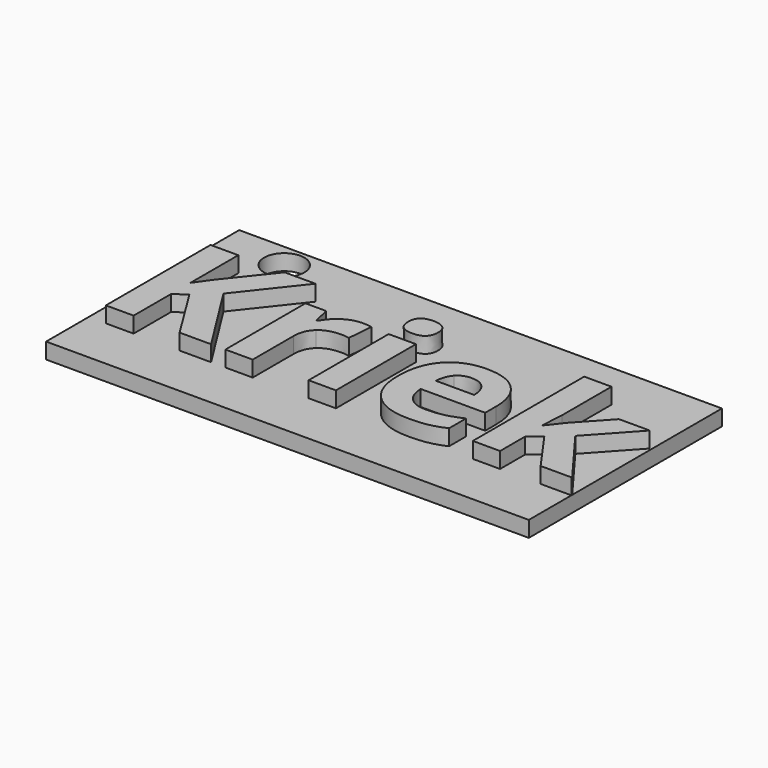
from build123d import *

# Parameters (mm, degrees)
F0_W     = 4.3074085058
F0_H     = 15.7923245744
F0_R     = 3.175
F1_DEPTH = 2.5
F2_DEPTH = 5


with BuildPart() as f1:
    # F0 (on Top) → F1 (new body)
    with BuildSketch(Plane.XY):
        Polygon((38.1, 19.9383278686), (-38.1, 19.9383278686), (-38.1, -18.1616721314), (38.1, -18.1616721314), (38.1, -9.7630377662), (33.2459606199, -9.7630377662), (28.6990005392, -3.3629428614), (26.8458657151, -4.8454507207), (26.8458657151, -9.7630377662), (22.5384572092, -9.7630377662), (22.5384572092, 12.2169491843), (26.8458657151, 12.2169491843), (26.8458657151, 2.4134139806), (26.6198736634, -1.1753398008), (26.6786315968, -1.1753398008), (28.5543656261, 1.2246957885), (32.9747701578, 6.0292868082), (37.8335992699, 6.0292868082), (31.5645797551, -0.8227922001), (38.1, -9.6047631542), align=None)
        Polygon((-26.0317545471, 1.7489973485), (-18.7728898458, -9.7630377662), (-23.7447149837, -9.7630377662), (-29.1549647019, -1.0623437749), (-31.003579685, -2.391177039), (-31.003579685, -9.7630377662), (-35.3833056474, -9.7630377662), (-35.3833056474, 10.8881159202), (-31.003579685, 10.8881159202), (-31.003579685, 1.4371283172), (-29.2815202509, 3.8688027937), (-23.6859570502, 10.8881159202), (-18.8271279382, 10.8881159202), align=None, mode=Mode.SUBTRACT)
        with BuildLine():
            add(Edge.make_bspline(
                [(-10.4179636936, 5.5117650097), (-9.1682276475, 6.3230764754), (-7.6992793113, 6.3230764754)],
                knots=[0, 0, 0, 1, 1, 1], degree=2))
            add(Edge.make_bspline(
                [(-7.6992793113, 6.3230764754), (-6.8224301506, 6.3230764754), (-6.2438904982, 6.1965209264)],
                knots=[0, 0, 0, 1, 1, 1], degree=2))
            Line((-6.2438904982, 6.1965209264), (-6.5693190527, 2.1603028827))
            add(Edge.make_bspline(
                [(-6.5693190527, 2.1603028827), (-7.0936206127, 2.3004179547), (-7.8393943834, 2.3004179547)],
                knots=[0, 0, 0, 1, 1, 1], degree=2))
            add(Edge.make_bspline(
                [(-7.8393943834, 2.3004179547), (-9.9004418951, 2.3004179547), (-11.0530013589, 1.2405152322)],
                knots=[0, 0, 0, 1, 1, 1], degree=2))
            add(Edge.make_bspline(
                [(-11.0530013589, 1.2405152322), (-12.2055608227, 0.1806125096), (-12.2055608227, -1.726760407)],
                knots=[0, 0, 0, 1, 1, 1], degree=2))
            Line((-12.2055608227, -1.726760407), (-12.2055608227, -9.7630377662))
            Line((-12.2055608227, -9.7630377662), (-16.5129693285, -9.7630377662))
            Line((-16.5129693285, -9.7630377662), (-16.5129693285, 6.0292868082))
            Line((-16.5129693285, 6.0292868082), (-13.2496441016, 6.0292868082))
            Line((-13.2496441016, 6.0292868082), (-12.6123465158, 3.3716202799))
            Line((-12.6123465158, 3.3716202799), (-12.4044338282, 3.3716202799))
            add(Edge.make_bspline(
                [(-12.4044338282, 3.3716202799), (-11.6676997396, 4.700453544), (-10.4179636936, 5.5117650097)],
                knots=[0, 0, 0, 1, 1, 1], degree=2))
        make_face(mode=Mode.SUBTRACT)
        with Locations((-1.2246070295, -1.866875479)):
            Rectangle(F0_W, F0_H, mode=Mode.SUBTRACT)
        with BuildLine():
            add(Edge.make_bspline(
                [(15.7315766113, -9.7720774483), (14.4479417575, -10.0477877514), (12.5948069334, -10.0477877514)],
                knots=[0, 0, 0, 1, 1, 1], degree=2))
            add(Edge.make_bspline(
                [(12.5948069334, -10.0477877514), (8.7845809414, -10.0477877514), (6.63765645, -7.9415418294)],
                knots=[0, 0, 0, 1, 1, 1], degree=2))
            add(Edge.make_bspline(
                [(6.63765645, -7.9415418294), (4.4907319586, -5.8352959073), (4.4907319586, -1.9798715049)],
                knots=[0, 0, 0, 1, 1, 1], degree=2))
            add(Edge.make_bspline(
                [(4.4907319586, -1.9798715049), (4.4907319586, 1.9885489234), (6.4749421728, 4.1558126994)],
                knots=[0, 0, 0, 1, 1, 1], degree=2))
            add(Edge.make_bspline(
                [(6.4749421728, 4.1558126994), (8.4591523869, 6.3230764754), (11.9620291886, 6.3230764754)],
                knots=[0, 0, 0, 1, 1, 1], degree=2))
            add(Edge.make_bspline(
                [(11.9620291886, 6.3230764754), (15.3067115541, 6.3230764754), (17.1711459808, 4.4179634794)],
                knots=[0, 0, 0, 1, 1, 1], degree=2))
            add(Edge.make_bspline(
                [(17.1711459808, 4.4179634794), (19.0355804075, 2.5128504834), (19.0355804075, -0.8499112463)],
                knots=[0, 0, 0, 1, 1, 1], degree=2))
            Line((19.0355804075, -0.8499112463), (19.0355804075, -2.9425976452))
            Line((19.0355804075, -2.9425976452), (8.8523785569, -2.9425976452))
            add(Edge.make_bspline(
                [(8.8523785569, -2.9425976452), (8.9246960134, -4.7776531052), (9.9416602462, -5.8081768611)],
                knots=[0, 0, 0, 1, 1, 1], degree=2))
            add(Edge.make_bspline(
                [(9.9416602462, -5.8081768611), (10.9586244789, -6.8387006169), (12.7936799389, -6.8387006169)],
                knots=[0, 0, 0, 1, 1, 1], degree=2))
            add(Edge.make_bspline(
                [(12.7936799389, -6.8387006169), (14.2219497058, -6.8387006169), (15.4920250365, -6.5426510292)],
                knots=[0, 0, 0, 1, 1, 1], degree=2))
            add(Edge.make_bspline(
                [(15.4920250365, -6.5426510292), (16.7621003672, -6.2466014414), (18.1451717237, -5.5957443325)],
                knots=[0, 0, 0, 1, 1, 1], degree=2))
            Line((18.1451717237, -5.5957443325), (18.1451717237, -8.9313870159))
            add(Edge.make_bspline(
                [(18.1451717237, -8.9313870159), (17.0152114651, -9.4963671452), (15.7315766113, -9.7720774483)],
                knots=[0, 0, 0, 1, 1, 1], degree=2))
        make_face(mode=Mode.SUBTRACT)
        with BuildLine():
            add(Edge.make_bspline(
                [(-1.2178272679, 7.9908978171), (-3.5636247648, 7.9908978171), (-3.5636247648, 10.1107032623)],
                knots=[0, 0, 0, 1, 1, 1], degree=2))
            add(Edge.make_bspline(
                [(-3.5636247648, 10.1107032623), (-3.5636247648, 12.2169491843), (-1.2178272679, 12.2169491843)],
                knots=[0, 0, 0, 1, 1, 1], degree=2))
            add(Edge.make_bspline(
                [(-1.2178272679, 12.2169491843), (1.127970229, 12.2169491843), (1.127970229, 10.1107032623)],
                knots=[0, 0, 0, 1, 1, 1], degree=2))
            add(Edge.make_bspline(
                [(1.127970229, 10.1107032623), (1.127970229, 9.1072985526), (0.542650815, 8.5490981849)],
                knots=[0, 0, 0, 1, 1, 1], degree=2))
            add(Edge.make_bspline(
                [(0.542650815, 8.5490981849), (-0.0426685989, 7.9908978171), (-1.2178272679, 7.9908978171)],
                knots=[0, 0, 0, 1, 1, 1], degree=2))
        make_face(mode=Mode.SUBTRACT)
        with Locations((-27.94, 16.1283278686)):
            Circle(F0_R, mode=Mode.SUBTRACT)
        Polygon((-23.7447149837, -9.7630377662), (-18.7728898458, -9.7630377662), (-26.0317545471, 1.7489973485), (-18.8271279382, 10.8881159202), (-23.6859570502, 10.8881159202), (-29.2815202509, 3.8688027937), (-31.003579685, 1.4371283172), (-31.003579685, 10.8881159202), (-35.3833056474, 10.8881159202), (-35.3833056474, -9.7630377662), (-31.003579685, -9.7630377662), (-31.003579685, -2.391177039), (-29.1549647019, -1.0623437749), align=None)
        Polygon((38.1, -9.7630377662), (38.1, -9.6047631542), (31.5645797551, -0.8227922001), (37.8335992699, 6.0292868082), (32.9747701578, 6.0292868082), (28.5543656261, 1.2246957885), (26.6786315968, -1.1753398008), (26.6198736634, -1.1753398008), (26.8458657151, 2.4134139806), (26.8458657151, 12.2169491843), (22.5384572092, 12.2169491843), (22.5384572092, -9.7630377662), (26.8458657151, -9.7630377662), (26.8458657151, -4.8454507207), (28.6990005392, -3.3629428614), (33.2459606199, -9.7630377662), align=None)
        with BuildLine():
            add(Edge.make_bspline(
                [(12.5948069334, -10.0477877514), (8.7845809414, -10.0477877514), (6.63765645, -7.9415418294)],
                knots=[0, 0, 0, 1, 1, 1], degree=2))
            add(Edge.make_bspline(
                [(15.7315766113, -9.7720774483), (14.4479417575, -10.0477877514), (12.5948069334, -10.0477877514)],
                knots=[0, 0, 0, 1, 1, 1], degree=2))
            add(Edge.make_bspline(
                [(18.1451717237, -8.9313870159), (17.0152114651, -9.4963671452), (15.7315766113, -9.7720774483)],
                knots=[0, 0, 0, 1, 1, 1], degree=2))
            Line((18.1451717237, -8.9313870159), (18.1451717237, -5.5957443325))
            add(Edge.make_bspline(
                [(15.4920250365, -6.5426510292), (16.7621003672, -6.2466014414), (18.1451717237, -5.5957443325)],
                knots=[0, 0, 0, 1, 1, 1], degree=2))
            add(Edge.make_bspline(
                [(12.7936799389, -6.8387006169), (14.2219497058, -6.8387006169), (15.4920250365, -6.5426510292)],
                knots=[0, 0, 0, 1, 1, 1], degree=2))
            add(Edge.make_bspline(
                [(9.9416602462, -5.8081768611), (10.9586244789, -6.8387006169), (12.7936799389, -6.8387006169)],
                knots=[0, 0, 0, 1, 1, 1], degree=2))
            add(Edge.make_bspline(
                [(8.8523785569, -2.9425976452), (8.9246960134, -4.7776531052), (9.9416602462, -5.8081768611)],
                knots=[0, 0, 0, 1, 1, 1], degree=2))
            Line((8.8523785569, -2.9425976452), (19.0355804075, -2.9425976452))
            Line((19.0355804075, -2.9425976452), (19.0355804075, -0.8499112463))
            add(Edge.make_bspline(
                [(17.1711459808, 4.4179634794), (19.0355804075, 2.5128504834), (19.0355804075, -0.8499112463)],
                knots=[0, 0, 0, 1, 1, 1], degree=2))
            add(Edge.make_bspline(
                [(11.9620291886, 6.3230764754), (15.3067115541, 6.3230764754), (17.1711459808, 4.4179634794)],
                knots=[0, 0, 0, 1, 1, 1], degree=2))
            add(Edge.make_bspline(
                [(6.4749421728, 4.1558126994), (8.4591523869, 6.3230764754), (11.9620291886, 6.3230764754)],
                knots=[0, 0, 0, 1, 1, 1], degree=2))
            add(Edge.make_bspline(
                [(4.4907319586, -1.9798715049), (4.4907319586, 1.9885489234), (6.4749421728, 4.1558126994)],
                knots=[0, 0, 0, 1, 1, 1], degree=2))
            add(Edge.make_bspline(
                [(6.63765645, -7.9415418294), (4.4907319586, -5.8352959073), (4.4907319586, -1.9798715049)],
                knots=[0, 0, 0, 1, 1, 1], degree=2))
        make_face()
        with BuildLine():
            add(Edge.make_bspline(
                [(11.9891482348, 3.258624254), (10.6196364014, 3.258624254), (9.8422237434, 2.3908147754)],
                knots=[0, 0, 0, 1, 1, 1], degree=2))
            add(Edge.make_bspline(
                [(14.1631917724, 2.3908147754), (13.3586600682, 3.258624254), (11.9891482348, 3.258624254)],
                knots=[0, 0, 0, 1, 1, 1], degree=2))
            add(Edge.make_bspline(
                [(14.9993623637, -0.0724985884), (14.9677234765, 1.5230052968), (14.1631917724, 2.3908147754)],
                knots=[0, 0, 0, 1, 1, 1], degree=2))
            Line((14.9993623637, -0.0724985884), (8.9518150596, -0.0724985884))
            add(Edge.make_bspline(
                [(9.8422237434, 2.3908147754), (9.0648110855, 1.5230052968), (8.9518150596, -0.0724985884)],
                knots=[0, 0, 0, 1, 1, 1], degree=2))
        make_face(mode=Mode.SUBTRACT)
        with BuildLine():
            add(Edge.make_bspline(
                [(-7.6992793113, 6.3230764754), (-6.8224301506, 6.3230764754), (-6.2438904982, 6.1965209264)],
                knots=[0, 0, 0, 1, 1, 1], degree=2))
            add(Edge.make_bspline(
                [(-10.4179636936, 5.5117650097), (-9.1682276475, 6.3230764754), (-7.6992793113, 6.3230764754)],
                knots=[0, 0, 0, 1, 1, 1], degree=2))
            add(Edge.make_bspline(
                [(-12.4044338282, 3.3716202799), (-11.6676997396, 4.700453544), (-10.4179636936, 5.5117650097)],
                knots=[0, 0, 0, 1, 1, 1], degree=2))
            Line((-12.4044338282, 3.3716202799), (-12.6123465158, 3.3716202799))
            Line((-12.6123465158, 3.3716202799), (-13.2496441016, 6.0292868082))
            Line((-13.2496441016, 6.0292868082), (-16.5129693285, 6.0292868082))
            Line((-16.5129693285, 6.0292868082), (-16.5129693285, -9.7630377662))
            Line((-16.5129693285, -9.7630377662), (-12.2055608227, -9.7630377662))
            Line((-12.2055608227, -9.7630377662), (-12.2055608227, -1.726760407))
            add(Edge.make_bspline(
                [(-11.0530013589, 1.2405152322), (-12.2055608227, 0.1806125096), (-12.2055608227, -1.726760407)],
                knots=[0, 0, 0, 1, 1, 1], degree=2))
            add(Edge.make_bspline(
                [(-7.8393943834, 2.3004179547), (-9.9004418951, 2.3004179547), (-11.0530013589, 1.2405152322)],
                knots=[0, 0, 0, 1, 1, 1], degree=2))
            add(Edge.make_bspline(
                [(-6.5693190527, 2.1603028827), (-7.0936206127, 2.3004179547), (-7.8393943834, 2.3004179547)],
                knots=[0, 0, 0, 1, 1, 1], degree=2))
            Line((-6.5693190527, 2.1603028827), (-6.2438904982, 6.1965209264))
        make_face()
        with Locations((-1.2246070295, -1.866875479)):
            Rectangle(F0_W, F0_H)
        with BuildLine():
            add(Edge.make_bspline(
                [(-3.5636247648, 10.1107032623), (-3.5636247648, 12.2169491843), (-1.2178272679, 12.2169491843)],
                knots=[0, 0, 0, 1, 1, 1], degree=2))
            add(Edge.make_bspline(
                [(-1.2178272679, 7.9908978171), (-3.5636247648, 7.9908978171), (-3.5636247648, 10.1107032623)],
                knots=[0, 0, 0, 1, 1, 1], degree=2))
            add(Edge.make_bspline(
                [(0.542650815, 8.5490981849), (-0.0426685989, 7.9908978171), (-1.2178272679, 7.9908978171)],
                knots=[0, 0, 0, 1, 1, 1], degree=2))
            add(Edge.make_bspline(
                [(1.127970229, 10.1107032623), (1.127970229, 9.1072985526), (0.542650815, 8.5490981849)],
                knots=[0, 0, 0, 1, 1, 1], degree=2))
            add(Edge.make_bspline(
                [(-1.2178272679, 12.2169491843), (1.127970229, 12.2169491843), (1.127970229, 10.1107032623)],
                knots=[0, 0, 0, 1, 1, 1], degree=2))
        make_face()
        with BuildLine():
            add(Edge.make_bspline(
                [(14.1631917724, 2.3908147754), (13.3586600682, 3.258624254), (11.9891482348, 3.258624254)],
                knots=[0, 0, 0, 1, 1, 1], degree=2))
            add(Edge.make_bspline(
                [(11.9891482348, 3.258624254), (10.6196364014, 3.258624254), (9.8422237434, 2.3908147754)],
                knots=[0, 0, 0, 1, 1, 1], degree=2))
            add(Edge.make_bspline(
                [(9.8422237434, 2.3908147754), (9.0648110855, 1.5230052968), (8.9518150596, -0.0724985884)],
                knots=[0, 0, 0, 1, 1, 1], degree=2))
            Line((8.9518150596, -0.0724985884), (14.9993623637, -0.0724985884))
            add(Edge.make_bspline(
                [(14.9993623637, -0.0724985884), (14.9677234765, 1.5230052968), (14.1631917724, 2.3908147754)],
                knots=[0, 0, 0, 1, 1, 1], degree=2))
        make_face()
    extrude(amount=F1_DEPTH)

    # F0 (on Top) → F2 (join)
    with BuildSketch(Plane.XY):
        Polygon((-23.7447149837, -9.7630377662), (-18.7728898458, -9.7630377662), (-26.0317545471, 1.7489973485), (-18.8271279382, 10.8881159202), (-23.6859570502, 10.8881159202), (-29.2815202509, 3.8688027937), (-31.003579685, 1.4371283172), (-31.003579685, 10.8881159202), (-35.3833056474, 10.8881159202), (-35.3833056474, -9.7630377662), (-31.003579685, -9.7630377662), (-31.003579685, -2.391177039), (-29.1549647019, -1.0623437749), align=None)
        with BuildLine():
            add(Edge.make_bspline(
                [(-7.6992793113, 6.3230764754), (-6.8224301506, 6.3230764754), (-6.2438904982, 6.1965209264)],
                knots=[0, 0, 0, 1, 1, 1], degree=2))
            add(Edge.make_bspline(
                [(-10.4179636936, 5.5117650097), (-9.1682276475, 6.3230764754), (-7.6992793113, 6.3230764754)],
                knots=[0, 0, 0, 1, 1, 1], degree=2))
            add(Edge.make_bspline(
                [(-12.4044338282, 3.3716202799), (-11.6676997396, 4.700453544), (-10.4179636936, 5.5117650097)],
                knots=[0, 0, 0, 1, 1, 1], degree=2))
            Line((-12.4044338282, 3.3716202799), (-12.6123465158, 3.3716202799))
            Line((-12.6123465158, 3.3716202799), (-13.2496441016, 6.0292868082))
            Line((-13.2496441016, 6.0292868082), (-16.5129693285, 6.0292868082))
            Line((-16.5129693285, 6.0292868082), (-16.5129693285, -9.7630377662))
            Line((-16.5129693285, -9.7630377662), (-12.2055608227, -9.7630377662))
            Line((-12.2055608227, -9.7630377662), (-12.2055608227, -1.726760407))
            add(Edge.make_bspline(
                [(-11.0530013589, 1.2405152322), (-12.2055608227, 0.1806125096), (-12.2055608227, -1.726760407)],
                knots=[0, 0, 0, 1, 1, 1], degree=2))
            add(Edge.make_bspline(
                [(-7.8393943834, 2.3004179547), (-9.9004418951, 2.3004179547), (-11.0530013589, 1.2405152322)],
                knots=[0, 0, 0, 1, 1, 1], degree=2))
            add(Edge.make_bspline(
                [(-6.5693190527, 2.1603028827), (-7.0936206127, 2.3004179547), (-7.8393943834, 2.3004179547)],
                knots=[0, 0, 0, 1, 1, 1], degree=2))
            Line((-6.5693190527, 2.1603028827), (-6.2438904982, 6.1965209264))
        make_face()
        with Locations((-1.2246070295, -1.866875479)):
            Rectangle(F0_W, F0_H)
        with BuildLine():
            add(Edge.make_bspline(
                [(-3.5636247648, 10.1107032623), (-3.5636247648, 12.2169491843), (-1.2178272679, 12.2169491843)],
                knots=[0, 0, 0, 1, 1, 1], degree=2))
            add(Edge.make_bspline(
                [(-1.2178272679, 7.9908978171), (-3.5636247648, 7.9908978171), (-3.5636247648, 10.1107032623)],
                knots=[0, 0, 0, 1, 1, 1], degree=2))
            add(Edge.make_bspline(
                [(0.542650815, 8.5490981849), (-0.0426685989, 7.9908978171), (-1.2178272679, 7.9908978171)],
                knots=[0, 0, 0, 1, 1, 1], degree=2))
            add(Edge.make_bspline(
                [(1.127970229, 10.1107032623), (1.127970229, 9.1072985526), (0.542650815, 8.5490981849)],
                knots=[0, 0, 0, 1, 1, 1], degree=2))
            add(Edge.make_bspline(
                [(-1.2178272679, 12.2169491843), (1.127970229, 12.2169491843), (1.127970229, 10.1107032623)],
                knots=[0, 0, 0, 1, 1, 1], degree=2))
        make_face()
        with BuildLine():
            add(Edge.make_bspline(
                [(12.5948069334, -10.0477877514), (8.7845809414, -10.0477877514), (6.63765645, -7.9415418294)],
                knots=[0, 0, 0, 1, 1, 1], degree=2))
            add(Edge.make_bspline(
                [(15.7315766113, -9.7720774483), (14.4479417575, -10.0477877514), (12.5948069334, -10.0477877514)],
                knots=[0, 0, 0, 1, 1, 1], degree=2))
            add(Edge.make_bspline(
                [(18.1451717237, -8.9313870159), (17.0152114651, -9.4963671452), (15.7315766113, -9.7720774483)],
                knots=[0, 0, 0, 1, 1, 1], degree=2))
            Line((18.1451717237, -8.9313870159), (18.1451717237, -5.5957443325))
            add(Edge.make_bspline(
                [(15.4920250365, -6.5426510292), (16.7621003672, -6.2466014414), (18.1451717237, -5.5957443325)],
                knots=[0, 0, 0, 1, 1, 1], degree=2))
            add(Edge.make_bspline(
                [(12.7936799389, -6.8387006169), (14.2219497058, -6.8387006169), (15.4920250365, -6.5426510292)],
                knots=[0, 0, 0, 1, 1, 1], degree=2))
            add(Edge.make_bspline(
                [(9.9416602462, -5.8081768611), (10.9586244789, -6.8387006169), (12.7936799389, -6.8387006169)],
                knots=[0, 0, 0, 1, 1, 1], degree=2))
            add(Edge.make_bspline(
                [(8.8523785569, -2.9425976452), (8.9246960134, -4.7776531052), (9.9416602462, -5.8081768611)],
                knots=[0, 0, 0, 1, 1, 1], degree=2))
            Line((8.8523785569, -2.9425976452), (19.0355804075, -2.9425976452))
            Line((19.0355804075, -2.9425976452), (19.0355804075, -0.8499112463))
            add(Edge.make_bspline(
                [(17.1711459808, 4.4179634794), (19.0355804075, 2.5128504834), (19.0355804075, -0.8499112463)],
                knots=[0, 0, 0, 1, 1, 1], degree=2))
            add(Edge.make_bspline(
                [(11.9620291886, 6.3230764754), (15.3067115541, 6.3230764754), (17.1711459808, 4.4179634794)],
                knots=[0, 0, 0, 1, 1, 1], degree=2))
            add(Edge.make_bspline(
                [(6.4749421728, 4.1558126994), (8.4591523869, 6.3230764754), (11.9620291886, 6.3230764754)],
                knots=[0, 0, 0, 1, 1, 1], degree=2))
            add(Edge.make_bspline(
                [(4.4907319586, -1.9798715049), (4.4907319586, 1.9885489234), (6.4749421728, 4.1558126994)],
                knots=[0, 0, 0, 1, 1, 1], degree=2))
            add(Edge.make_bspline(
                [(6.63765645, -7.9415418294), (4.4907319586, -5.8352959073), (4.4907319586, -1.9798715049)],
                knots=[0, 0, 0, 1, 1, 1], degree=2))
        make_face()
        with BuildLine():
            add(Edge.make_bspline(
                [(11.9891482348, 3.258624254), (10.6196364014, 3.258624254), (9.8422237434, 2.3908147754)],
                knots=[0, 0, 0, 1, 1, 1], degree=2))
            add(Edge.make_bspline(
                [(14.1631917724, 2.3908147754), (13.3586600682, 3.258624254), (11.9891482348, 3.258624254)],
                knots=[0, 0, 0, 1, 1, 1], degree=2))
            add(Edge.make_bspline(
                [(14.9993623637, -0.0724985884), (14.9677234765, 1.5230052968), (14.1631917724, 2.3908147754)],
                knots=[0, 0, 0, 1, 1, 1], degree=2))
            Line((14.9993623637, -0.0724985884), (8.9518150596, -0.0724985884))
            add(Edge.make_bspline(
                [(9.8422237434, 2.3908147754), (9.0648110855, 1.5230052968), (8.9518150596, -0.0724985884)],
                knots=[0, 0, 0, 1, 1, 1], degree=2))
        make_face(mode=Mode.SUBTRACT)
        Polygon((38.1, -9.7630377662), (38.1, -9.6047631542), (31.5645797551, -0.8227922001), (37.8335992699, 6.0292868082), (32.9747701578, 6.0292868082), (28.5543656261, 1.2246957885), (26.6786315968, -1.1753398008), (26.6198736634, -1.1753398008), (26.8458657151, 2.4134139806), (26.8458657151, 12.2169491843), (22.5384572092, 12.2169491843), (22.5384572092, -9.7630377662), (26.8458657151, -9.7630377662), (26.8458657151, -4.8454507207), (28.6990005392, -3.3629428614), (33.2459606199, -9.7630377662), align=None)
    extrude(amount=F2_DEPTH)


solid = f1.part
